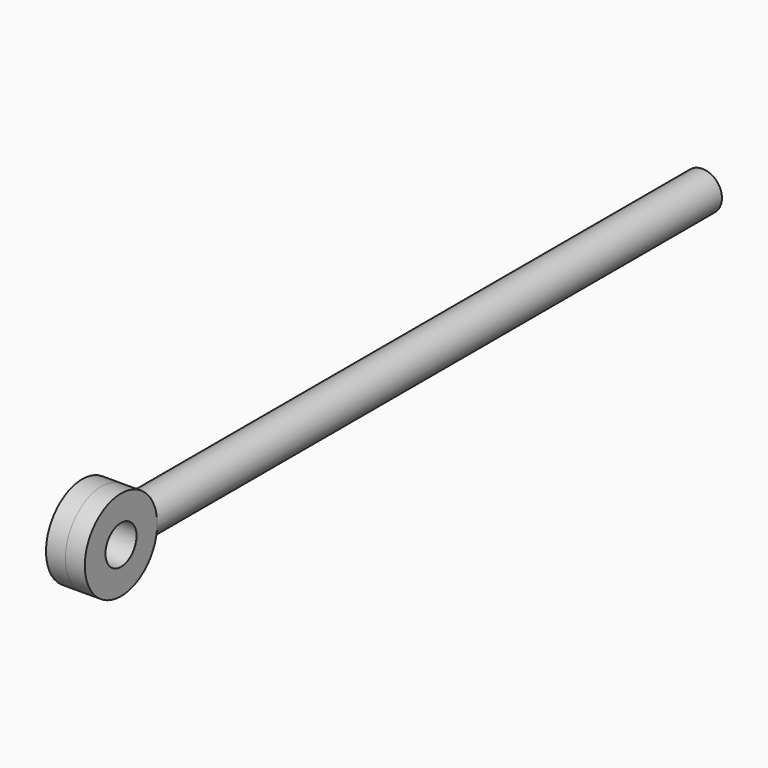
from build123d import *

# Parameters (mm, degrees)
F0_R          = 15
F1_DEPTH      = 550
F2_R          = 35
F3_DEPTH      = 15
F3_DEPTH_BACK = 15
F4_R          = 15
F5_DEPTH      = 30.001


with BuildPart() as f1:
    # F0 (on Front) → F1 (new body)
    with BuildSketch(Plane.XZ):
        Circle(F0_R)
    extrude(amount=-F1_DEPTH)

    # F2 (on Right) → F3 (join, two sides)
    with BuildSketch(Plane.YZ) as f3_sk:
        with Locations((-31, 0)):
            Circle(F2_R)
    extrude(amount=F3_DEPTH)
    extrude(f3_sk.sketch, amount=-F3_DEPTH_BACK)

    # F4 (on face) → F5 (cut, through all)
    with BuildSketch(Plane.YZ.offset(15)):
        with Locations((-31, 0)):
            Circle(F4_R)
    extrude(amount=-F5_DEPTH, mode=Mode.SUBTRACT)


solid = f1.part
